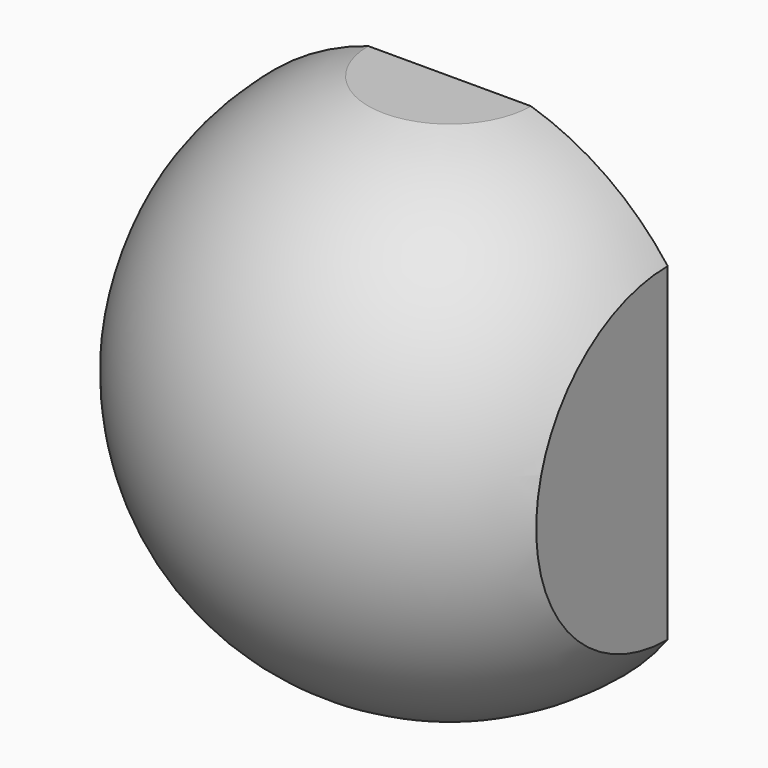
from build123d import *

# Parameters (mm, degrees)
F0_W     = 78.734032
F0_H     = 94.131536
F1_DEPTH = 85.5


with BuildPart() as f1:
    # F0 (on Front) → F1 (new body)
    with BuildSketch(Plane.XZ):
        Rectangle(F0_W, F0_H)
    extrude(amount=F1_DEPTH)


with BuildPart() as f3:
    # F2 (on Front) → F3 (revolve)
    with BuildSketch(Plane.XZ):
        with BuildLine():
            Line((0, 0), (0, 49.300977))
            ThreePointArc((0, 49.300977), (-49.300977, 0), (0, -49.300977))
            Line((0, -49.300977), (0, 0))
        make_face()
    revolve(axis=Axis((0, 0, 0), (0, 0, -1)))


with BuildPart() as f1_1:
    add(f1.part)

    # F4: intersect F3
    add(f3.part, mode=Mode.INTERSECT)


solid = f1_1.part
